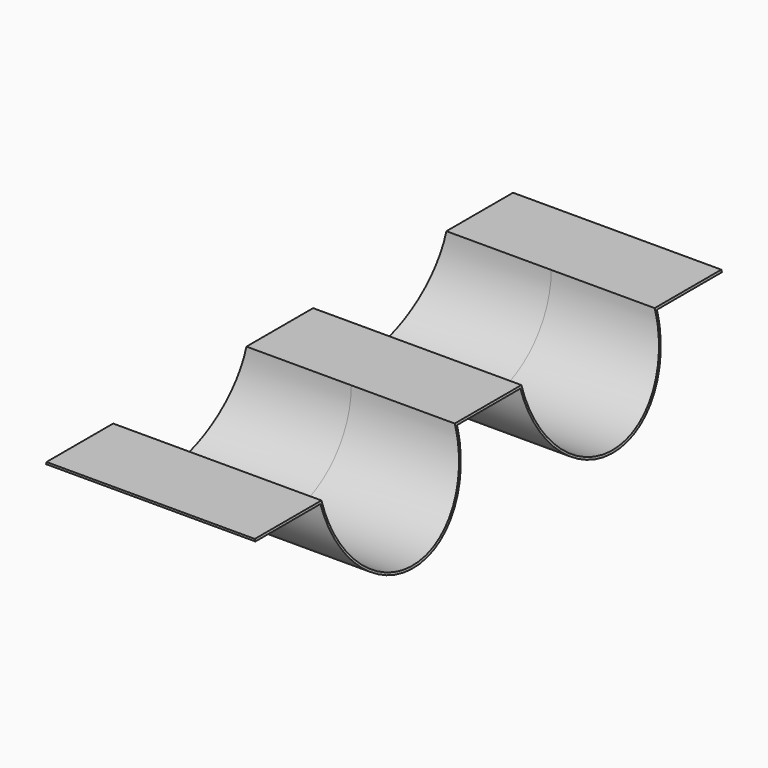
from build123d import *

# Parameters (mm, degrees)
F1_DEPTH      = 700
F2_R          = 100
F3_DEPTH      = 400
F3_DEPTH_BACK = 310
F4_T          = -2.5


with BuildPart() as f1:
    # F0 (on Front) → F1 (new body)
    with BuildSketch(Plane.XZ):
        Polygon((270.7016063785, -167.6180982615), (124.1205126206, 332.3819017385), (-125.8794873794, 332.3819017385), (-229.2983936215, -167.6180982615), align=None)
    extrude(amount=-F1_DEPTH)

    # F2 (on Right) → F3 (cut, two sides)
    with BuildSketch(Plane.YZ) as f3_sk:
        with Locations((200, 332.3819017385)):
            Circle(F2_R)
        with Locations((500, 332.3819017385)):
            Circle(F2_R)
    extrude(amount=-F3_DEPTH, mode=Mode.SUBTRACT)
    extrude(f3_sk.sketch, amount=F3_DEPTH_BACK, mode=Mode.SUBTRACT)

    # F4
    f4_openings = [f1.faces().sort_by_distance(p)[0] for p in [
        (11.110009, 0, 54.604124),
        (203.411383, 350, 61.914311),
        (20.701606, 350, -167.618098),
        (-181.822412, 350, 61.914311),
        (11.110009, 700, 54.604124),
    ]]
    offset(amount=F4_T, openings=f4_openings)


solid = f1.part
